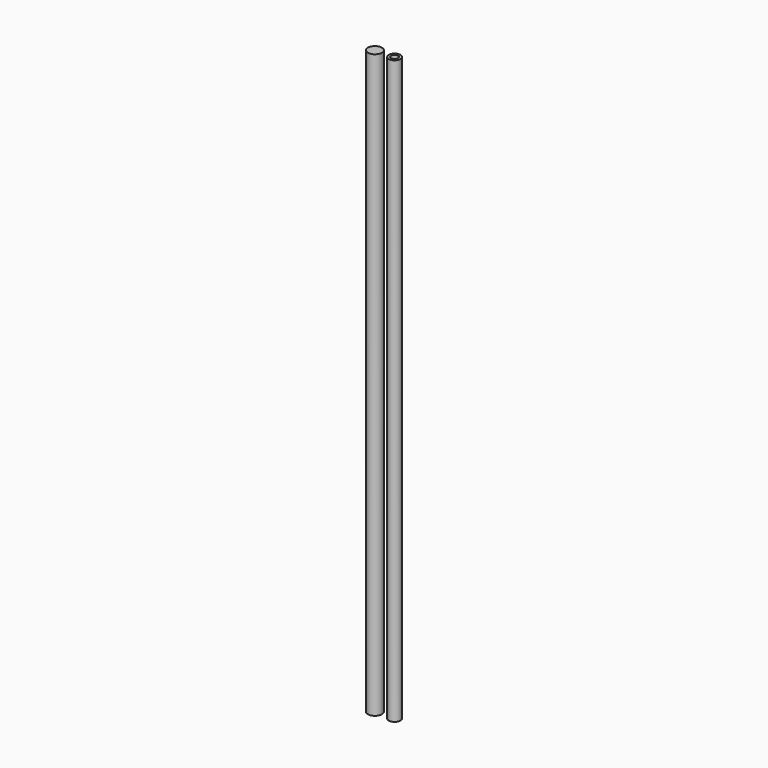
from build123d import *

# Parameters (mm, degrees)
F0_R     = 6
F0_R_2   = 5
F0_R_3   = 3
F1_DEPTH = 500


with BuildPart() as f1:
    # F0 (on Top) → F1 (new body)
    with BuildSketch(Plane.XY):
        with Locations((-39.158534, 52.803494)):
            Circle(F0_R)
        with Locations((-22.761776, 53.399895)):
            Circle(F0_R_2)
        with Locations((-22.761776, 53.399895)):
            Circle(F0_R_3, mode=Mode.SUBTRACT)
    extrude(amount=F1_DEPTH)


solid = f1.part
